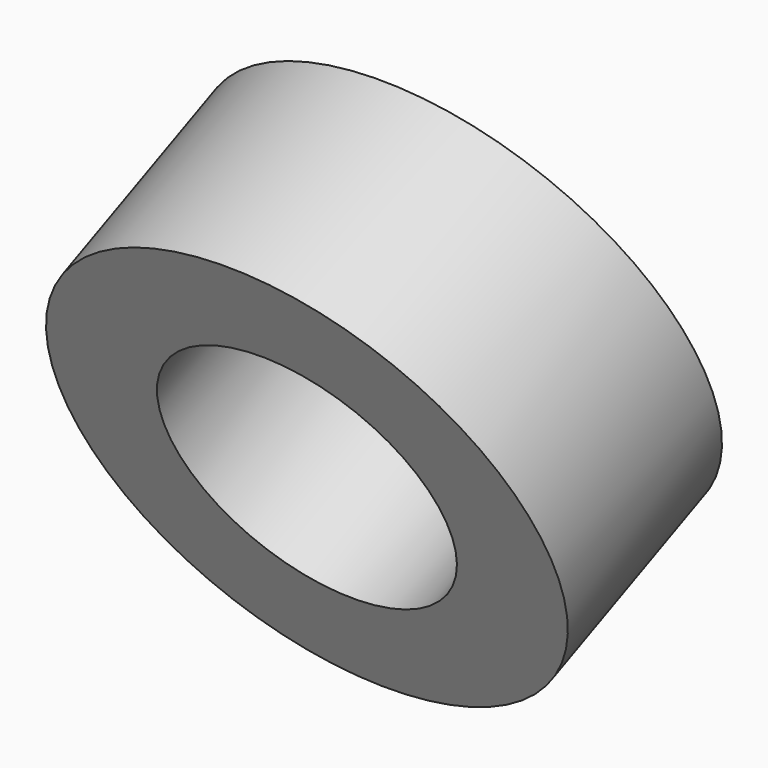
from build123d import *

# Parameters (mm, degrees)
F2_R     = 40
F2_R_2   = 23
F4_DEPTH = 34


with BuildPart() as f4:
    # F2 (on face) → F4 (new body)
    with BuildSketch(Plane(origin=(0, 0, 0), x_dir=(-1, 0, 0), z_dir=(0, 0.913545, 0.406737))):
        Circle(F2_R)
        Circle(F2_R_2, mode=Mode.SUBTRACT)
    extrude(amount=-F4_DEPTH)


solid = f4.part
